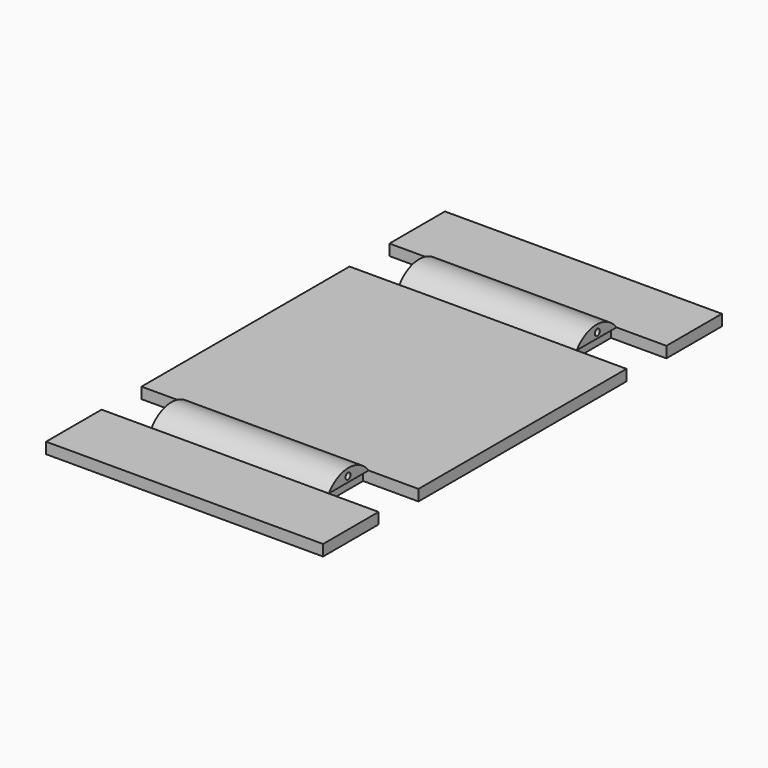
from build123d import *

# Parameters (mm, degrees)
F1_DEPTH = 0.5
F2_R     = 0.283788
F3_DEPTH = 8


with BuildPart() as f1:
    # F0 (on Top) → F1 (new body, symmetric)
    with BuildSketch(Plane.XY):
        Polygon((-12.5, -16.234914), (-12.5, -22.5), (12.5, -22.5), (12.5, -16.234914), (7.5, -16.234914), (7.5, -11.734914), (12.5, -11.734914), (12.5, 11.734914), (7.5, 11.734914), (7.5, 16.234914), (12.5, 16.234914), (12.5, 22.5), (-12.5, 22.5), (-12.5, 16.234914), (-7.5, 16.234914), (-7.5, 11.734914), (-12.5, 11.734914), (-12.5, -11.734914), (-7.5, -11.734914), (-7.5, -16.234914), align=None)
    extrude(amount=F1_DEPTH, both=True)


with BuildPart() as f3:
    # F2 (on Right) → F3 (new body, symmetric)
    with BuildSketch(Plane.YZ):
        with BuildLine():
            Line((-16.231198, 0.501725), (-11.733621, 0.507786))
            ThreePointArc((-11.733621, 0.507786), (-13.983942, 1.641847), (-16.231198, 0.501725))
        make_face()
        with Locations((-14.061208, 0.998761)):
            Circle(F2_R, mode=Mode.SUBTRACT)
        with BuildLine():
            ThreePointArc((16.231198, 0.501725), (13.983942, 1.641847), (11.733621, 0.507786))
            Line((11.733621, 0.507786), (16.231198, 0.501725))
        make_face()
        with Locations((14.061208, 0.998761)):
            Circle(F2_R, mode=Mode.SUBTRACT)
    extrude(amount=F3_DEPTH, both=True)


solid = Compound([f1.part, f3.part])
